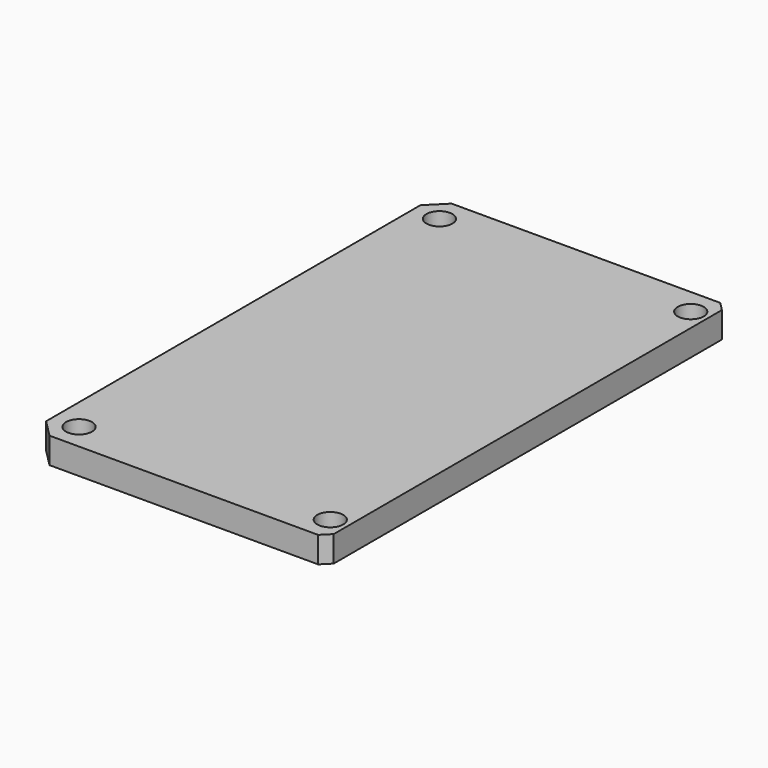
from build123d import *

# Parameters (mm, degrees)
F0_W     = 43.18
F0_H     = 73.66
F0_R     = 1.905
F1_DEPTH = 3.81
F2_SIZE  = 1.27
F3_SIZE  = 2.54


with BuildPart() as f1:
    # F0 (on Top) → F1 (new body)
    with BuildSketch(Plane.XY):
        with Locations((-58.500675, 50.269581)):
            Rectangle(F0_W, F0_H)
        with Locations((-76.280675, 17.249581)):
            Circle(F0_R, mode=Mode.SUBTRACT)
        with Locations((-39.450675, 17.249581)):
            Circle(F0_R, mode=Mode.SUBTRACT)
        with Locations((-76.280675, 83.289581)):
            Circle(F0_R, mode=Mode.SUBTRACT)
        with Locations((-39.450675, 83.289581)):
            Circle(F0_R, mode=Mode.SUBTRACT)
    extrude(amount=F1_DEPTH)

    # F2
    f2_edges = [f1.edges().sort_by_distance(p)[0] for p in [
        (-36.910675, 13.439581, 1.905),
        (-36.910675, 87.099581, 1.905),
    ]]
    chamfer(f2_edges, length=F2_SIZE)

    # F3
    f3_edges = [f1.edges().sort_by_distance(p)[0] for p in [
        (-80.090675, 13.439581, 1.905),
        (-80.090675, 87.099581, 1.905),
    ]]
    chamfer(f3_edges, length=F3_SIZE)


solid = f1.part
